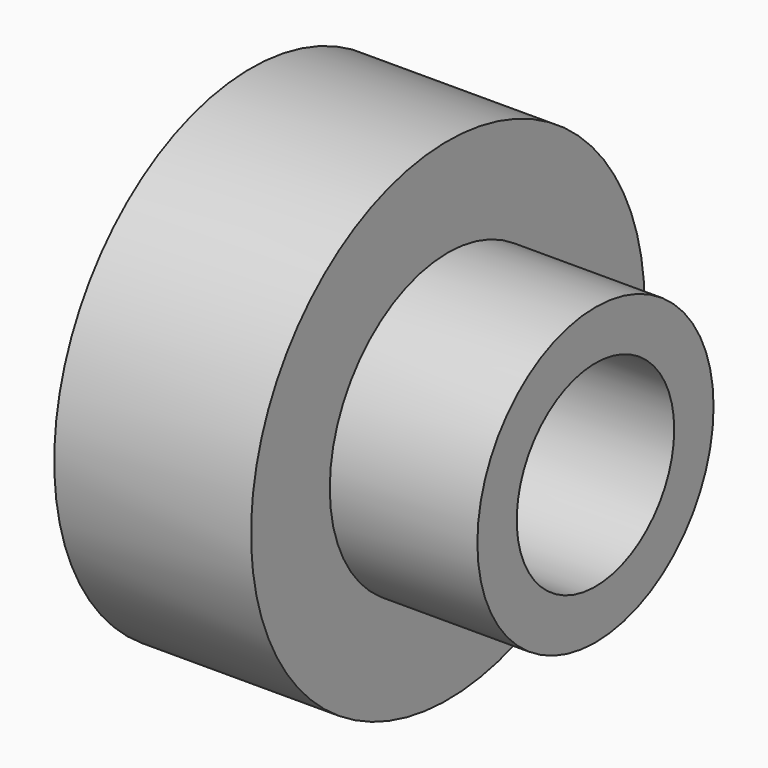
from build123d import *

# Parameters (mm, degrees)
F0_R     = 31.75
F1_DEPTH = 25.4
F2_R     = 19.05
F3_DEPTH = 19.05
F4_R     = 12.7
F5_DEPTH = 177.8


with BuildPart() as f1:
    # F0 (on Right) → F1 (new body)
    with BuildSketch(Plane.YZ):
        Circle(F0_R)
    extrude(amount=F1_DEPTH)

    # F2 (on face) → F3 (join)
    with BuildSketch(Plane.YZ.offset(25.4)):
        Circle(F2_R)
    extrude(amount=F3_DEPTH)

    # F4 (on face) → F5 (cut)
    with BuildSketch(Plane.YZ.offset(44.45)):
        Circle(F4_R)
    extrude(amount=-F5_DEPTH, mode=Mode.SUBTRACT)


solid = f1.part
